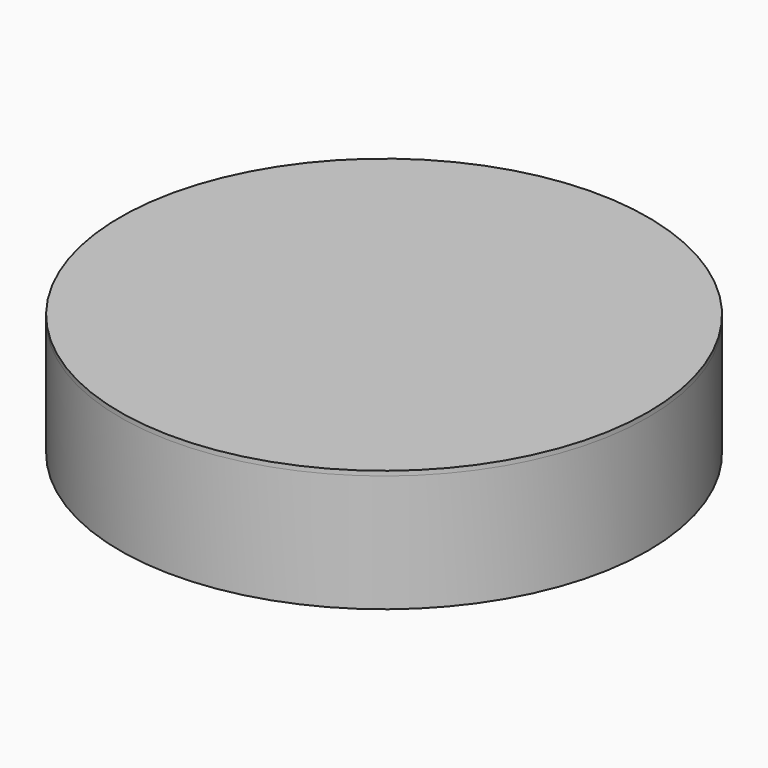
from build123d import *

# Parameters (mm, degrees)
F0_R      = 50.8
F0_R_2    = 44.45
F1_DEPTH  = 6.35
F2_R      = 57.15
F2_R_2    = 50.8
F3_DEPTH  = 25.4
F4_R      = 50.8
F5_DEPTH  = 1
F6_R      = 44.45
F6_R_2    = 38.1
F7_DEPTH  = 18.05
F8_R      = 57.15
F9_DEPTH  = 1
F10_R     = 25.4
F11_DEPTH = 2.54


with BuildPart() as f1:
    # F0 (on Top) → F1 (new body)
    with BuildSketch(Plane.XY):
        Circle(F0_R)
        Circle(F0_R_2, mode=Mode.SUBTRACT)
    extrude(amount=F1_DEPTH)


with BuildPart() as f3:
    # F2 (on Top) → F3 (new body)
    with BuildSketch(Plane.XY):
        Circle(F2_R)
        Circle(F2_R_2, mode=Mode.SUBTRACT)
    extrude(amount=F3_DEPTH)


with BuildPart() as f5:
    # F4 (on face) → F5 (new body)
    with BuildSketch(Plane.XY.offset(6.35)):
        Circle(F4_R)
    extrude(amount=F5_DEPTH)


with BuildPart() as f7:
    # F6 (on face) → F7 (new body)
    with BuildSketch(Plane.XY.offset(7.35)):
        Circle(F6_R)
        Circle(F6_R_2, mode=Mode.SUBTRACT)
    extrude(amount=F7_DEPTH)


with BuildPart() as f9:
    # F8 (on face) → F9 (new body)
    with BuildSketch(Plane.XY.offset(25.4)):
        Circle(F8_R)
    extrude(amount=F9_DEPTH)


with BuildPart() as f11:
    # F10 (on face) → F11 (new body)
    with BuildSketch(Plane(origin=(0, 0, 6.35), x_dir=(1, 0, 0), z_dir=(0, 0, -1))):
        Circle(F10_R)
    extrude(amount=F11_DEPTH)


solid = Compound([f1.part, f3.part, f5.part, f7.part, f9.part, f11.part])
